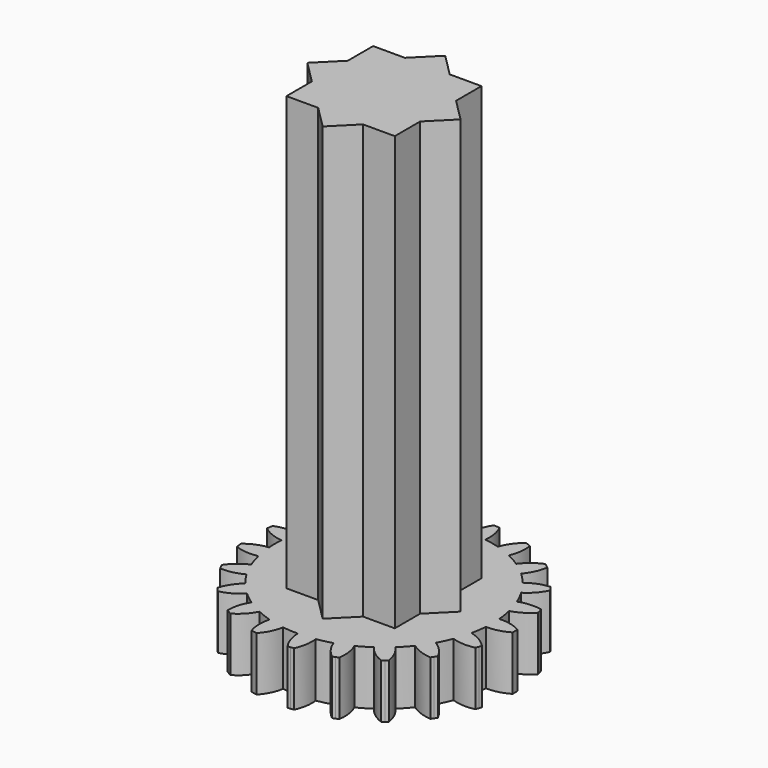
from build123d import *

# Parameters (mm, degrees)
F1_DEPTH = 2.5
F3_DEPTH = 20
F4_R     = 1.25
F5_DEPTH = 7


with BuildPart() as f1:
    # F0 (on Top) → F1 (new body)
    with BuildSketch(Plane.XY):
        with BuildLine():
            ThreePointArc((62.8365565144, 3.362066225), (62.8481611829, 3.2932454376), (62.8611358083, 3.2246697262))
            ThreePointArc((62.8611358083, 3.2246697262), (63.3821632788, 3.1048254944), (63.9158244158, 3.1370443667))
            ThreePointArc((63.9158244158, 3.1370443667), (64.0112504006, 2.7936189748), (64.1309002393, 2.457864549))
            ThreePointArc((64.1309002393, 2.457864549), (63.6759694494, 2.1770260877), (63.3188995714, 1.7791148324))
            ThreePointArc((63.3188995714, 1.7791148324), (63.3477633185, 1.715570728), (63.3778883758, 1.6526147908))
            ThreePointArc((63.3778883758, 1.6526147908), (63.4092627646, 1.590272054), (63.4418740096, 1.528567307))
            ThreePointArc((63.4418740096, 1.528567307), (63.9750783989, 1.5676229611), (64.4755337896, 1.7557098208))
            ThreePointArc((64.4755337896, 1.7557098208), (64.6679466769, 1.4556691584), (64.8812461633, 1.1700987687))
            ThreePointArc((64.8812461633, 1.1700987687), (64.5293052616, 0.7676439679), (64.3053853979, 0.2821625991))
            ThreePointArc((64.3053853979, 0.2821625991), (64.3516967633, 0.2299493198), (64.399040037, 0.1786698547))
            ThreePointArc((64.399040037, 0.1786698547), (64.447396394, 0.1283445943), (64.4967466064, 0.0789935493))
            ThreePointArc((64.4967466064, 0.0789935493), (64.9947503646, 0.273478823), (65.4175323513, 0.6007213272))
            ThreePointArc((65.4175323513, 0.6007213272), (65.6898354117, 0.3707253237), (65.9778319504, 0.1607131525))
            ThreePointArc((65.9778319504, 0.1607131525), (65.7601524305, -0.3275981125), (65.6892788436, -0.8575124448))
            ThreePointArc((65.6892788436, -0.8575124448), (65.7489228592, -0.8937555201), (65.8092776918, -0.9288021074))
            ThreePointArc((65.8092776918, -0.9288021074), (65.8703193425, -0.9626382713), (65.9320235392, -0.9952505574))
            ThreePointArc((65.9320235392, -0.9952505574), (66.350576847, -0.6626165341), (66.6581193948, -0.225295318))
            ThreePointArc((66.6581193948, -0.225295318), (66.9861173064, -0.3648105083), (67.3232211411, -0.480603958))
            ThreePointArc((67.3232211411, -0.480603958), (67.2591447836, -1.0113830884), (67.3476149028, -1.5386451702))
            ThreePointArc((67.3476149028, -1.5386451702), (67.4152919361, -1.5556976851), (67.4832955358, -1.5713973517))
            ThreePointArc((67.4832955358, -1.5713973517), (67.5515986615, -1.5857379274), (67.620174154, -1.5987137099))
            ThreePointArc((67.620174154, -1.5987137099), (67.9220867131, -1.1574869297), (68.0870633172, -0.6489449108))
            ThreePointArc((68.0870633172, -0.6489449108), (68.4416120261, -0.685582751), (68.7978700017, -0.6968687231))
            ThreePointArc((68.7978700017, -0.6968687231), (68.8930902722, -1.2229536639), (69.133043139, -1.7007139454))
            ThreePointArc((69.133043139, -1.7007139454), (69.2027397886, -1.6970607091), (69.2723497372, -1.6920184707))
            ThreePointArc((69.2723497372, -1.6920184707), (69.3418453056, -1.6855892351), (69.4111988604, -1.6777755587))
            ThreePointArc((69.4111988604, -1.6777755587), (69.569644415, -1.1671609574), (69.57739618, -0.6325843259))
            ThreePointArc((69.57739618, -0.6325843259), (69.9269924775, -0.5630893831), (70.2707495095, -0.4688650694))
            ThreePointArc((70.2707495095, -0.4688650694), (70.516805669, -0.9435108649), (70.8869204184, -1.3293182485))
            ThreePointArc((70.8869204184, -1.3293182485), (70.9524438311, -1.3052838671), (71.0174749791, -1.2799477487))
            ThreePointArc((71.0174749791, -1.2799477487), (71.0819880039, -1.2533199676), (71.1459572533, -1.2254111118))
            ThreePointArc((71.1459572533, -1.2254111118), (71.1468572207, -0.6907790374), (70.9966953682, -0.1776672729))
            ThreePointArc((70.9966953682, -0.1776672729), (71.3102760892, -0.0082144778), (71.6109878567, 0.183147878))
            ThreePointArc((71.6109878567, 0.183147878), (71.9860167357, -0.1978844104), (72.4534070478, -0.4574582169))
            ThreePointArc((72.4534070478, -0.4574582169), (72.5089351809, -0.4151782508), (72.5636092254, -0.3717994776))
            ThreePointArc((72.5636092254, -0.3717994776), (72.6174074413, -0.3273391462), (72.6703084367, -0.2818149353))
            ThreePointArc((72.6703084367, -0.2818149353), (72.5135828508, 0.2293302061), (72.2188499204, 0.6753848716))
            ThreePointArc((72.2188499204, 0.6753848716), (72.4685520416, 0.9297388945), (72.6994989845, 1.2012359073))
            ThreePointArc((72.6994989845, 1.2012359073), (73.1701776212, 0.947673517), (73.6933138158, 0.8373975593))
            ThreePointArc((73.6933138158, 0.8373975593), (73.7339127509, 0.8941663498), (73.7733716632, 0.9517333832))
            ThreePointArc((73.7733716632, 0.9517333832), (73.8116748626, 1.0100757694), (73.8488071185, 1.0691703095))
            ThreePointArc((73.8488071185, 1.0691703095), (73.5483817353, 1.511411029), (73.1352660413, 1.8507746809))
            ThreePointArc((73.1352660413, 1.8507746809), (73.2989024335, 2.1674294606), (73.4395639024, 2.4949374293))
            ThreePointArc((73.4395639024, 2.4949374293), (73.9640704345, 2.3913750682), (74.4964695648, 2.4401954622))
            ThreePointArc((74.4964695648, 2.4401954622), (74.5185319085, 2.5064089208), (74.539269591, 2.573049131))
            ThreePointArc((74.539269591, 2.573049131), (74.5586743665, 2.6400895949), (74.576738519, 2.7075036549))
            ThreePointArc((74.576738519, 2.7075036549), (74.1593074523, 3.0415449239), (73.664516137, 3.2440636125))
            ThreePointArc((73.664516137, 3.2440636125), (73.7275469886, 3.5948829821), (73.7654245947, 3.9493013864))
            ThreePointArc((73.7654245947, 3.9493013864), (74.297154315, 4.0049410248), (74.7915103821, 4.2085198643))
            ThreePointArc((74.7915103821, 4.2085198643), (74.7930757981, 4.2782946346), (74.7932496168, 4.3480867465))
            ThreePointArc((74.7932496168, 4.3480867465), (74.792031769, 4.4178684486), (74.7894227389, 4.4876119936))
            ThreePointArc((74.7894227389, 4.4876119936), (74.2920765707, 4.6837727793), (73.7595740139, 4.7314518304))
            ThreePointArc((73.7595740139, 4.7314518304), (73.7163987571, 5.0852639494), (73.6481269089, 5.4351011588))
            ThreePointArc((73.6481269089, 5.4351011588), (74.1398332983, 5.6449989706), (74.552220596, 5.9852473822))
            ThreePointArc((74.552220596, 5.9852473822), (74.5331499905, 6.0523836697), (74.5127445008, 6.1191263479))
            ThreePointArc((74.5127445008, 6.1191263479), (74.4910122407, 6.1854488778), (74.4679618517, 6.2513248877))
            ThreePointArc((74.4679618517, 6.2513248877), (73.9348919717, 6.2921754435), (73.4119933625, 6.1807783642))
            ThreePointArc((73.4119933625, 6.1807783642), (73.2664483084, 6.5061454731), (73.0980932591, 6.8203169163))
            ThreePointArc((73.0980932591, 6.8203169163), (73.5060860471, 7.1658225599), (73.7998621544, 7.612507979))
            ThreePointArc((73.7998621544, 7.612507979), (73.7618500342, 7.67104043), (73.7226783534, 7.7288032946))
            ThreePointArc((73.7226783534, 7.7288032946), (73.6823626878, 7.7857736045), (73.6409190682, 7.8419287066))
            ThreePointArc((73.6409190682, 7.8419287066), (73.1194910745, 7.7238392814), (72.6526582489, 7.463264191))
            ThreePointArc((72.6526582489, 7.463264191), (72.4176757142, 7.7312759943), (72.1641965489, 7.9818661599))
            ThreePointArc((72.1641965489, 7.9818661599), (72.4522237859, 8.4322799426), (72.6012854063, 8.9457124096))
            ThreePointArc((72.6012854063, 8.9457124096), (72.5477093152, 8.9904401589), (72.493252019, 9.0340907258))
            ThreePointArc((72.493252019, 9.0340907258), (72.4379351717, 9.0766467537), (72.3817807689, 9.1180913208))
            ThreePointArc((72.3817807689, 9.1180913208), (71.9183258271, 8.8515546783), (71.5490389303, 8.464954817))
            ThreePointArc((71.5490389303, 8.464954817), (71.2454981445, 8.65179729), (70.9294175993, 8.816540142))
            ThreePointArc((70.9294175993, 8.816540142), (71.0718868012, 9.3318408225), (71.0629891558, 9.8663996096))
            ThreePointArc((71.0629891558, 9.8663996096), (70.9986095645, 9.8933484004), (70.9337054227, 9.9190081253))
            ThreePointArc((70.9337054227, 9.9190081253), (70.8683025383, 9.9433685812), (70.8024269174, 9.9664200817))
            ThreePointArc((70.8024269174, 9.9664200817), (70.4381250329, 9.5751191722), (70.1991968263, 9.0968456344))
            ThreePointArc((70.1991968263, 9.0968456344), (69.8540687203, 9.1859170032), (69.5034719387, 9.2501744163))
            ThreePointArc((69.5034719387, 9.2501744163), (69.4877240918, 9.7845752679), (69.3216577753, 10.2927624809))
            ThreePointArc((69.3216577753, 10.2927624809), (69.252195093, 10.2995377948), (69.1826111235, 10.3049266985))
            ThreePointArc((69.1826111235, 10.3049266985), (69.1129335353, 10.3089270492), (69.0431900344, 10.3115372561))
            ThreePointArc((69.0431900344, 10.3115372561), (68.8104110283, 9.8302408825), (68.7230713316, 9.3027903709))
            ThreePointArc((68.7230713316, 9.3027903709), (68.3670220521, 9.2861762536), (68.0130610968, 9.2442386747))
            ThreePointArc((68.0130610968, 9.2442386747), (67.8404954664, 9.7502558365), (67.5320161997, 10.1869168113))
            ThreePointArc((67.5320161997, 10.1869168113), (67.4636424907, 10.1729166321), (67.3955615344, 10.1575558868))
            ThreePointArc((67.3955615344, 10.1575558868), (67.3278004019, 10.1408406835), (67.2603860371, 10.1227776684))
            ThreePointArc((67.2603860371, 10.1227776684), (67.1798133457, 9.5942511258), (67.2518226742, 9.0644899329))
            ThreePointArc((67.2518226742, 9.0644899329), (66.9164887622, 8.9436665668), (66.5906146174, 8.7992603337))
            ThreePointArc((66.5906146174, 8.7992603337), (66.2765644169, 9.2319319603), (65.8530819368, 9.5582674531))
            ThreePointArc((65.8530819368, 9.5582674531), (65.7918725051, 9.5247357581), (65.7313438539, 9.4899902335))
            ThreePointArc((65.7313438539, 9.4899902335), (65.671520051, 9.4540446953), (65.6124248844, 9.4169134365))
            ThreePointArc((65.6124248844, 9.4169134365), (65.6912177449, 8.8881186275), (65.9161777537, 8.4031183602))
            ThreePointArc((65.9161777537, 8.4031183602), (65.6313550989, 8.1888214315), (65.3625231125, 7.9547776718))
            ThreePointArc((65.3625231125, 7.9547776718), (64.9348930805, 8.2756589904), (64.4340356637, 8.4626726606))
            ThreePointArc((64.4340356637, 8.4626726606), (64.3854292359, 8.412588888), (64.337831126, 8.3615458764))
            ThreePointArc((64.337831126, 8.3615458764), (64.2912602602, 8.3095639222), (64.2457351567, 8.2566636948))
            ThreePointArc((64.2457351567, 8.2566636948), (64.4768924776, 7.7745863588), (64.8348144829, 7.3774414193))
            ThreePointArc((64.8348144829, 7.3774414193), (64.625810828, 7.0887121506), (64.4379079017, 6.7858266794))
            ThreePointArc((64.4379079017, 6.7858266794), (63.9346948432, 6.9664059767), (63.4009658691, 6.997480839))
            ThreePointArc((63.4009658691, 6.997480839), (63.3692813397, 6.9352951517), (63.338843072, 6.8724900488))
            ThreePointArc((63.338843072, 6.8724900488), (63.3096631691, 6.8090905032), (63.281753234, 6.7451217248))
            ThreePointArc((63.281753234, 6.7451217248), (63.6447356729, 6.3525965486), (64.1038167337, 6.0785950075))
            ThreePointArc((64.1038167337, 6.0785950075), (63.9892029707, 5.7410882614), (63.8989251041, 5.3962737821))
            ThreePointArc((63.8989251041, 5.3962737821), (63.3648417076, 5.420505795), (62.8456653378, 5.2928807115))
            ThreePointArc((62.8456653378, 5.2928807115), (62.8337180162, 5.2241185809), (62.8231441644, 5.1551318955))
            ThreePointArc((62.8231441644, 5.1551318955), (62.8139479869, 5.0859480865), (62.8061331403, 5.0165946636))
            ThreePointArc((62.8061331403, 5.0165946636), (63.2686881147, 4.7484992318), (63.788136864, 4.6219873285))
            ThreePointArc((63.788136864, 4.6219873285), (63.7780969289, 4.2656920604), (63.7934657065, 3.9095868526))
            ThreePointArc((63.7934657065, 3.9095868526), (63.2759676256, 3.7753184605), (62.817474959, 3.50033348))
            ThreePointArc((62.817474959, 3.50033348), (62.8263264172, 3.431104723), (62.8365565144, 3.362066225))
        make_face()
    extrude(amount=F1_DEPTH)

    # F2 (on face) → F3 (join)
    with BuildSketch(Plane.XY.offset(2.5)):
        Polygon((69.8134909601, 1.8030916242), (71.2779570542, 1.8030916242), (71.2779570542, 3.2675577183), align=None)
        Polygon((68.7779570542, 0.7675577183), (69.8134909601, 1.8030916242), (67.7424231482, 1.8030916242), align=None)
        Polygon((67.7424231482, 1.8030916242), (69.8134909601, 1.8030916242), (71.2779570542, 3.2675577183), (71.2779570542, 5.3386255301), (69.8134909601, 6.8030916242), (67.7424231482, 6.8030916242), (66.2779570542, 5.3386255301), (66.2779570542, 3.2675577183), align=None)
        Polygon((71.2779570542, 5.3386255301), (71.2779570542, 3.2675577183), (72.3134909601, 4.3030916242), align=None)
        Polygon((66.2779570542, 1.8030916242), (67.7424231482, 1.8030916242), (66.2779570542, 3.2675577183), align=None)
        Polygon((69.8134909601, 6.8030916242), (71.2779570542, 5.3386255301), (71.2779570542, 6.8030916242), align=None)
        Polygon((65.2424231482, 4.3030916242), (66.2779570542, 3.2675577183), (66.2779570542, 5.3386255301), align=None)
        Polygon((67.7424231482, 6.8030916242), (69.8134909601, 6.8030916242), (68.7779570542, 7.8386255301), align=None)
        Polygon((66.2779570542, 6.8030916242), (66.2779570542, 5.3386255301), (67.7424231482, 6.8030916242), align=None)
    extrude(amount=F3_DEPTH)

    # F4 (on face) → F5 (cut)
    with BuildSketch(Plane(origin=(0, 0, 0), x_dir=(1, 0, 0), z_dir=(0, 0, -1))):
        with Locations((68.7779570542, -4.3030916242)):
            Circle(F4_R)
    extrude(amount=-F5_DEPTH, mode=Mode.SUBTRACT)


solid = f1.part
